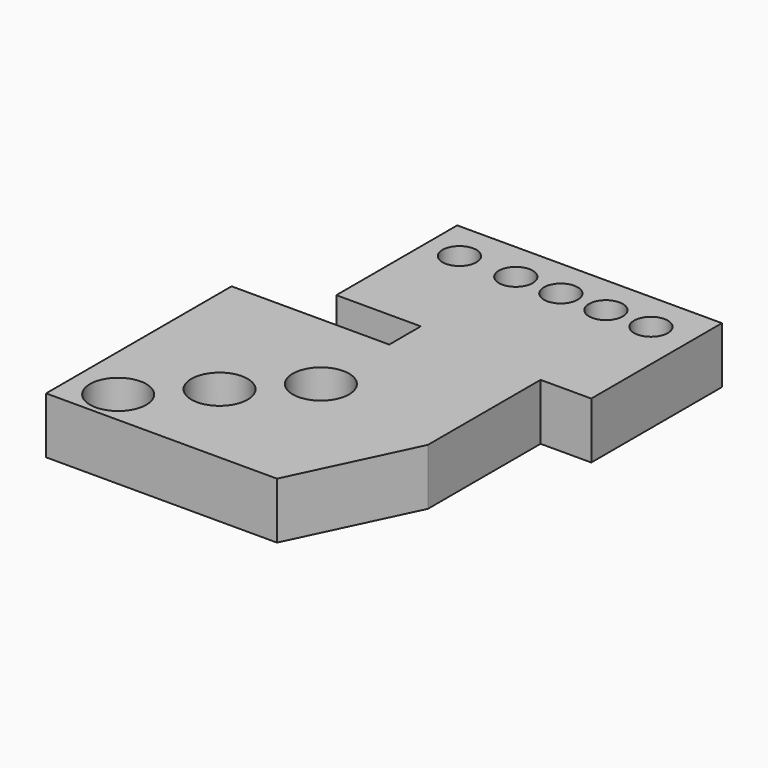
from build123d import *

# Parameters (mm, degrees)
F0_R     = 12.5
F0_R_2   = 7.5
F1_DEPTH = 25


with BuildPart() as f1:
    # F0 (on Top) → F1 (new body)
    with BuildSketch(Plane.XY):
        Polygon((0, -12.08159), (-70, -12.08159), (-70, -115), (32.5, -115), (57.5, -62.5), (57.5, 0), (80, 0), (80, 72.5), (-37.5, 72.5), (-37.5, 5.41841), (0, 5.41841), align=None)
        with Locations((-50, -100)):
            Circle(F0_R, mode=Mode.SUBTRACT)
        with Locations((-25, -75)):
            Circle(F0_R, mode=Mode.SUBTRACT)
        with Locations((0, -50)):
            Circle(F0_R, mode=Mode.SUBTRACT)
        with Locations((-22.5, 55)):
            Circle(F0_R_2, mode=Mode.SUBTRACT)
        with Locations((2.5, 55)):
            Circle(F0_R_2, mode=Mode.SUBTRACT)
        with Locations((22.5, 55)):
            Circle(F0_R_2, mode=Mode.SUBTRACT)
        with Locations((42.5, 55)):
            Circle(F0_R_2, mode=Mode.SUBTRACT)
        with Locations((62.5, 55)):
            Circle(F0_R_2, mode=Mode.SUBTRACT)
        Polygon((0, -12.08159), (-70, -12.08159), (-70, -115), (32.5, -115), (57.5, -62.5), (57.5, 0), (80, 0), (80, 72.5), (-37.5, 72.5), (-37.5, 5.41841), (0, 5.41841), align=None)
        with Locations((-50, -100)):
            Circle(F0_R, mode=Mode.SUBTRACT)
        with Locations((-25, -75)):
            Circle(F0_R, mode=Mode.SUBTRACT)
        with Locations((0, -50)):
            Circle(F0_R, mode=Mode.SUBTRACT)
        with Locations((-22.5, 55)):
            Circle(F0_R_2, mode=Mode.SUBTRACT)
        with Locations((2.5, 55)):
            Circle(F0_R_2, mode=Mode.SUBTRACT)
        with Locations((22.5, 55)):
            Circle(F0_R_2, mode=Mode.SUBTRACT)
        with Locations((42.5, 55)):
            Circle(F0_R_2, mode=Mode.SUBTRACT)
        with Locations((62.5, 55)):
            Circle(F0_R_2, mode=Mode.SUBTRACT)
    extrude(amount=F1_DEPTH)


solid = f1.part
